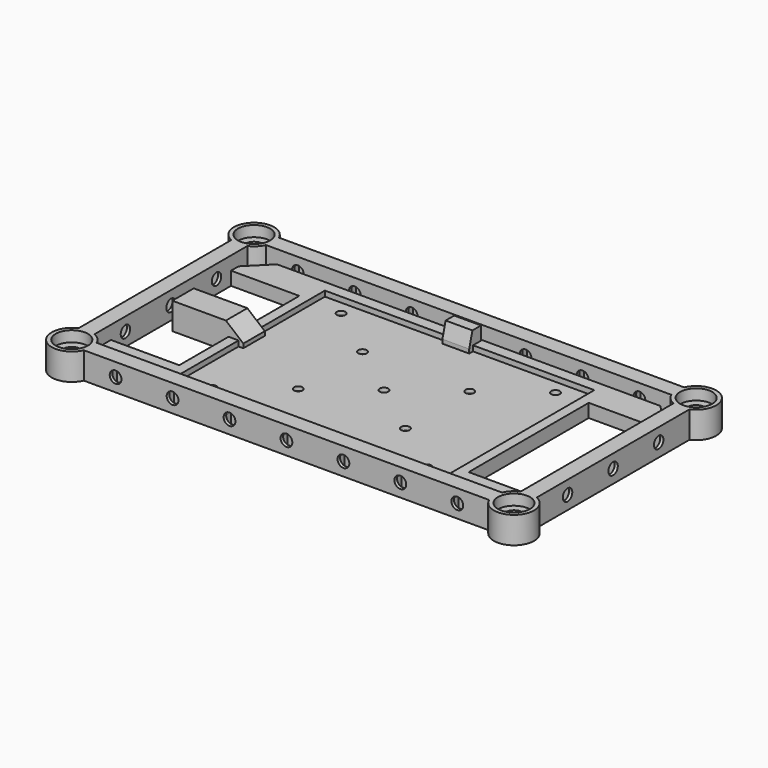
from build123d import *

# Parameters (mm, degrees)
SKETCH001_R             = 3.15
PAD_DEPTH               = 10
SKETCH002_R             = 6
SKETCH002_R_2           = 3.15
POCKET_DEPTH            = 4
SKETCH003_R             = 2.2
POCKET001_DEPTH         = 150.001
SKETCH004_R             = 2.2
POCKET002_DEPTH         = 190.001
POCKET003_DEPTH         = 3.6
POCKET004_DEPTH         = 3.6
POCKET005_DEPTH         = 3.6
POCKET006_DEPTH         = 3.6
BOX_W                   = 100
BOX_H                   = 70
BOX_DEPTH               = 1.45
PAD001_DEPTH            = 10
POCKET007_DEPTH         = 3.6
SKETCH012_R             = 2.2
POCKET008_DEPTH         = 5
PAD002_DEPTH            = 10
POCKET010_DEPTH         = 3.6
SKETCH013_R             = 2.2
POCKET009_DEPTH         = 5
PAD003_DEPTH            = 10
POCKET011_DEPTH         = 3.6
SKETCH018_R             = 2.2
POCKET012_DEPTH         = 4
BODY003_PLACEMENT_ANGLE = 90
PAD004_DEPTH            = 5
SKETCH020_W             = 100.55
SKETCH020_H             = 70.55
POCKET013_DEPTH         = 2
SKETCH021_W             = 27
SKETCH021_H             = 56
POCKET014_DEPTH         = 5.001
SKETCH022_R             = 1.6
POCKET015_DEPTH         = 5.001


with BuildPart() as obj1:
    # Sketch001 → Pad (new body)
    with BuildSketch(Plane.XY):
        with BuildLine():
            ThreePointArc((-75.626136, 45.5), (-87.803301, 47.803301), (-85.5, 35.626136))
            Line((-85.5, 35.626136), (-85.5, -35.626136))
            ThreePointArc((-85.5, -35.626136), (-87.803301, -47.803301), (-75.626136, -45.5))
            Line((75.626136, -45.5), (-75.626136, -45.5))
            ThreePointArc((75.626136, -45.5), (87.803301, -47.803301), (85.5, -35.626136))
            Line((85.5, 35.626136), (85.5, -35.626136))
            ThreePointArc((85.5, 35.626136), (87.803301, 47.803301), (75.626136, 45.5))
            Line((-75.626136, 45.5), (75.626136, 45.5))
        make_face()
        with Locations((-82.5, 42.5)):
            Circle(SKETCH001_R, mode=Mode.SUBTRACT)
        with Locations((82.5, 42.5)):
            Circle(SKETCH001_R, mode=Mode.SUBTRACT)
        with Locations((-82.5, -42.5)):
            Circle(SKETCH001_R, mode=Mode.SUBTRACT)
        with Locations((82.5, -42.5)):
            Circle(SKETCH001_R, mode=Mode.SUBTRACT)
        with BuildLine():
            ThreePointArc((75.626136, 39.5), (77.196699, 37.196699), (79.5, 35.626136))
            Line((79.5, 35.626136), (79.5, -35.626136))
            ThreePointArc((79.5, -35.626136), (77.196699, -37.196699), (75.626136, -39.5))
            Line((-75.626136, -39.5), (75.626136, -39.5))
            ThreePointArc((-75.626136, -39.5), (-77.196699, -37.196699), (-79.5, -35.626136))
            Line((-79.5, 35.626136), (-79.5, -35.626136))
            ThreePointArc((-79.5, 35.626136), (-77.196699, 37.196699), (-75.626136, 39.5))
            Line((-75.626136, 39.5), (75.626136, 39.5))
        make_face(mode=Mode.SUBTRACT)
    extrude(amount=PAD_DEPTH)

    # Sketch002 → Pocket (cut)
    with BuildSketch(Plane.XY.offset(10)):
        with Locations((-82.5, 42.5)):
            Circle(SKETCH002_R)
        with Locations((-82.5, 42.5)):
            Circle(SKETCH002_R_2, mode=Mode.SUBTRACT)
        with Locations((82.5, 42.5)):
            Circle(SKETCH002_R)
        with Locations((82.5, 42.5)):
            Circle(SKETCH002_R_2, mode=Mode.SUBTRACT)
        with Locations((82.5, -42.5)):
            Circle(SKETCH002_R)
        with Locations((82.5, -42.5)):
            Circle(SKETCH002_R_2, mode=Mode.SUBTRACT)
        with Locations((-82.5, -42.5)):
            Circle(SKETCH002_R)
        with Locations((-82.5, -42.5)):
            Circle(SKETCH002_R_2, mode=Mode.SUBTRACT)
    extrude(amount=-POCKET_DEPTH, mode=Mode.SUBTRACT)

    # Sketch003 → Pocket001 (cut, through all)
    with BuildSketch(Plane.XZ.offset(-100)):
        with Locations((0, 5)):
            Circle(SKETCH003_R)
        with Locations((-21.25, 5)):
            Circle(SKETCH003_R)
        with Locations((-42.5, 5)):
            Circle(SKETCH003_R)
        with Locations((-63.75, 5)):
            Circle(SKETCH003_R)
        with Locations((21.25, 5)):
            Circle(SKETCH003_R)
        with Locations((42.5, 5)):
            Circle(SKETCH003_R)
        with Locations((63.75, 5)):
            Circle(SKETCH003_R)
    extrude(amount=POCKET001_DEPTH, mode=Mode.SUBTRACT)

    # Sketch004 → Pocket002 (cut, through all)
    with BuildSketch(Plane.YZ.offset(100)):
        with Locations((0, 5)):
            Circle(SKETCH004_R)
        with Locations((21.25, 5)):
            Circle(SKETCH004_R)
        with Locations((-21.25, 5)):
            Circle(SKETCH004_R)
    extrude(amount=-POCKET002_DEPTH, mode=Mode.SUBTRACT)

    # Sketch005 → Pocket003 (cut)
    with BuildSketch(Plane.XZ.offset(40.7)):
        Polygon((3.377499, 3.05), (3.377499, 6.95), (0, 8.9), (-3.377499, 6.95), (-3.377499, 3.05), (-3.377499, -1.95), (3.377499, -1.95), align=None)
        Polygon((-17.872501, 3.05), (-17.872501, 6.95), (-21.25, 8.9), (-24.627499, 6.95), (-24.627499, 3.05), (-24.627499, -1.95), (-17.872501, -1.95), align=None)
        Polygon((-39.122501, 3.05), (-39.122501, 6.95), (-42.5, 8.9), (-45.877499, 6.95), (-45.877499, 3.05), (-45.877499, -1.95), (-39.122501, -1.95), align=None)
        Polygon((-60.372501, 3.05), (-60.372501, 6.95), (-63.75, 8.9), (-67.127499, 6.95), (-67.127499, 3.05), (-67.127499, -1.95), (-60.372501, -1.95), align=None)
        Polygon((24.627499, 3.05), (24.627499, 6.95), (21.25, 8.9), (17.872501, 6.95), (17.872501, 3.05), (17.872501, -1.95), (24.627499, -1.95), align=None)
        Polygon((45.877499, 3.05), (45.877499, 6.95), (42.5, 8.9), (39.122501, 6.95), (39.122501, 3.05), (39.122501, -1.95), (45.877499, -1.95), align=None)
        Polygon((67.127499, 3.05), (67.127499, 6.95), (63.75, 8.9), (60.372501, 6.95), (60.372501, 3.05), (60.372501, -1.95), (67.127499, -1.95), align=None)
    extrude(amount=POCKET003_DEPTH, mode=Mode.SUBTRACT)

    # Sketch006 → Pocket004 (cut)
    with BuildSketch(Plane.XZ.offset(-40.7)):
        Polygon((3.377499, 3.05), (3.377499, 6.95), (0, 8.9), (-3.377499, 6.95), (-3.377499, 3.05), (-3.377499, -1.95), (3.377499, -1.95), align=None)
        Polygon((-17.872501, 3.05), (-17.872501, 6.95), (-21.25, 8.9), (-24.627499, 6.95), (-24.627499, 3.05), (-24.627499, -1.95), (-17.872501, -1.95), align=None)
        Polygon((-39.122501, 3.05), (-39.122501, 6.95), (-42.5, 8.9), (-45.877499, 6.95), (-45.877499, 3.05), (-45.877499, -1.95), (-39.122501, -1.95), align=None)
        Polygon((-60.372501, 3.05), (-60.372501, 6.95), (-63.75, 8.9), (-67.127499, 6.95), (-67.127499, 3.05), (-67.127499, -1.95), (-60.372501, -1.95), align=None)
        Polygon((24.627499, 3.05), (24.627499, 6.95), (21.25, 8.9), (17.872501, 6.95), (17.872501, 3.05), (17.872501, -1.95), (24.627499, -1.95), align=None)
        Polygon((45.877499, 3.05), (45.877499, 6.95), (42.5, 8.9), (39.122501, 6.95), (39.122501, 3.05), (39.122501, -1.95), (45.877499, -1.95), align=None)
        Polygon((67.127499, 3.05), (67.127499, 6.95), (63.75, 8.9), (60.372501, 6.95), (60.372501, 3.05), (60.372501, -1.95), (67.127499, -1.95), align=None)
    extrude(amount=-POCKET004_DEPTH, mode=Mode.SUBTRACT)

    # Sketch007 → Pocket005 (cut)
    with BuildSketch(Plane.YZ.offset(-80.7)):
        Polygon((3.377499, 3.05), (3.377499, 6.95), (0, 8.9), (-3.377499, 6.95), (-3.377499, 3.05), (-3.377499, -1.95), (3.377499, -1.95), align=None)
        Polygon((-17.872501, 3.05), (-17.872501, 6.95), (-21.25, 8.9), (-24.627499, 6.95), (-24.627499, 3.05), (-24.627499, -1.95), (-17.872501, -1.95), align=None)
        Polygon((24.627499, 3.05), (24.627499, 6.95), (21.25, 8.9), (17.872501, 6.95), (17.872501, 3.05), (17.872501, -1.95), (24.627499, -1.95), align=None)
    extrude(amount=-POCKET005_DEPTH, mode=Mode.SUBTRACT)

    # Sketch008 → Pocket006 (cut)
    with BuildSketch(Plane.YZ.offset(80.7)):
        Polygon((3.377499, 3.05), (3.377499, 6.95), (0, 8.9), (-3.377499, 6.95), (-3.377499, 3.05), (-3.377499, -1.95), (3.377499, -1.95), align=None)
        Polygon((-17.872501, 3.05), (-17.872501, 6.95), (-21.25, 8.9), (-24.627499, 6.95), (-24.627499, 3.05), (-24.627499, -1.95), (-17.872501, -1.95), align=None)
        Polygon((24.627499, 3.05), (24.627499, 6.95), (21.25, 8.9), (17.872501, 6.95), (17.872501, 3.05), (17.872501, -1.95), (24.627499, -1.95), align=None)
    extrude(amount=POCKET006_DEPTH, mode=Mode.SUBTRACT)


with BuildPart() as pcb:
    # Box → Box (new body)
    with BuildSketch(Plane(origin=(-50, -35, 0), x_dir=(1, 0, 0), z_dir=(0, 0, 1))):
        with Locations((50, 35)):
            Rectangle(BOX_W, BOX_H)
    extrude(amount=BOX_DEPTH)


with BuildPart() as obj2:
    # Sketch010 → Pad001 (new body)
    with BuildSketch(Plane.XZ):
        Polygon((1.5, 4.5), (1.5, 1.5), (0, 1.5), (0, 0), (-15.054645, 0), (-15.054645, 10), (-5.054645, 10), align=None)
    extrude(amount=PAD001_DEPTH)

    # Sketch011 → Pocket007 (cut)
    with BuildSketch(Plane.YZ.offset(-15.1)):
        Polygon((-8.377499, 3.05), (-5, 1.1), (-1.622501, 3.05), (-1.622501, 6.95), (-5, 8.9), (-8.377499, 6.95), align=None)
    extrude(amount=POCKET007_DEPTH, mode=Mode.SUBTRACT)

    # Sketch012 → Pocket008 (cut)
    with BuildSketch(Plane.YZ.offset(-15)):
        with Locations((-5, 5)):
            Circle(SKETCH012_R)
    extrude(amount=POCKET008_DEPTH, mode=Mode.SUBTRACT)


with BuildPart() as obj2_1:
    # Body001 placement: moved
    add(obj2.part.moved(Location((-50, 5, 0))))


with BuildPart() as obj3:
    # Sketch014 → Pad002 (new body)
    with BuildSketch(Plane.XZ):
        Polygon((1.5, 4.55), (1.5, 1.55), (0, 1.55), (0, 0), (-24.995057, 0), (-24.995057, 10), (-4.995057, 10), align=None)
    extrude(amount=PAD002_DEPTH)

    # Sketch015 → Pocket010 (cut)
    with BuildSketch(Plane.YZ.offset(-24)):
        Polygon((-1.622501, 3.05), (-1.622501, 6.95), (-5, 8.9), (-8.377499, 6.95), (-8.377499, 3.05), (-8.377499, -1), (-1.622501, -1), align=None)
    extrude(amount=POCKET010_DEPTH, mode=Mode.SUBTRACT)

    # Sketch013 → Pocket009 (cut)
    with BuildSketch(Plane.YZ.offset(-25.1)):
        with Locations((-5, 5)):
            Circle(SKETCH013_R)
    extrude(amount=POCKET009_DEPTH, mode=Mode.SUBTRACT)


with BuildPart() as obj3_1:
    # Body002 placement: moved
    add(obj3.part.moved(Location((-50, 5, 0))))


with BuildPart() as obj4:
    # Sketch016 → Pad003 (new body)
    with BuildSketch(Plane.XZ):
        Polygon((1.5, 4.5), (1.5, 1.5), (0, 1.5), (0, 0), (-4, 0), (-4, 10), (0, 10), align=None)
    extrude(amount=PAD003_DEPTH)

    # Sketch017 → Pocket011 (cut)
    with BuildSketch(Plane.YZ.offset(-4)):
        Polygon((-8.377499, 3.05), (-5, 1.1), (-1.622501, 3.05), (-1.622501, 6.95), (-5, 8.9), (-8.377499, 6.95), align=None)
    extrude(amount=POCKET011_DEPTH, mode=Mode.SUBTRACT)

    # Sketch018 → Pocket012 (cut)
    with BuildSketch(Plane.YZ.offset(-4)):
        with Locations((-5, 5)):
            Circle(SKETCH018_R)
    extrude(amount=POCKET012_DEPTH, mode=Mode.SUBTRACT)


with BuildPart() as obj4_1:
    # Body003 placement: moved
    add(obj4.part.moved(Location((5, 35, 0))).rotate(Axis((5, 35, 0), (0, 0, -1)), BODY003_PLACEMENT_ANGLE))


with BuildPart() as obj5:
    # Sketch019 → Pad004 (new body)
    with BuildSketch(Plane.XY):
        Polygon((-79.5, 31.5), (-71.5, 39.5), (71.5, 39.5), (79.5, 31.5), (79.5, -31.5), (71.5, -39.5), (-71.5, -39.5), (-79.5, -31.5), align=None)
    extrude(amount=PAD004_DEPTH)

    # Sketch020 → Pocket013 (cut)
    with BuildSketch(Plane.XY.offset(5)):
        Rectangle(SKETCH020_W, SKETCH020_H)
    extrude(amount=-POCKET013_DEPTH, mode=Mode.SUBTRACT)

    # Sketch021 → Pocket014 (cut, through all)
    with BuildSketch(Plane.XY):
        with Locations((-67.5, 0)):
            Rectangle(SKETCH021_W, SKETCH021_H)
        with Locations((67.5, 0)):
            Rectangle(SKETCH021_W, SKETCH021_H)
    extrude(amount=POCKET014_DEPTH, mode=Mode.SUBTRACT)

    # Sketch022 → Pocket015 (cut, through all)
    with BuildSketch(Plane.XY):
        Circle(SKETCH022_R)
        with Locations((-20, 15)):
            Circle(SKETCH022_R)
        with Locations((20, 15)):
            Circle(SKETCH022_R)
        with Locations((-20, -15)):
            Circle(SKETCH022_R)
        with Locations((20, -15)):
            Circle(SKETCH022_R)
        with Locations((-40, 30)):
            Circle(SKETCH022_R)
        with Locations((40, 30)):
            Circle(SKETCH022_R)
        with Locations((-40, -30)):
            Circle(SKETCH022_R)
        with Locations((40, -30)):
            Circle(SKETCH022_R)
    extrude(amount=POCKET015_DEPTH, mode=Mode.SUBTRACT)


solid = Compound([obj1.part, pcb.part, obj2_1.part, obj3_1.part, obj4_1.part, obj5.part])
